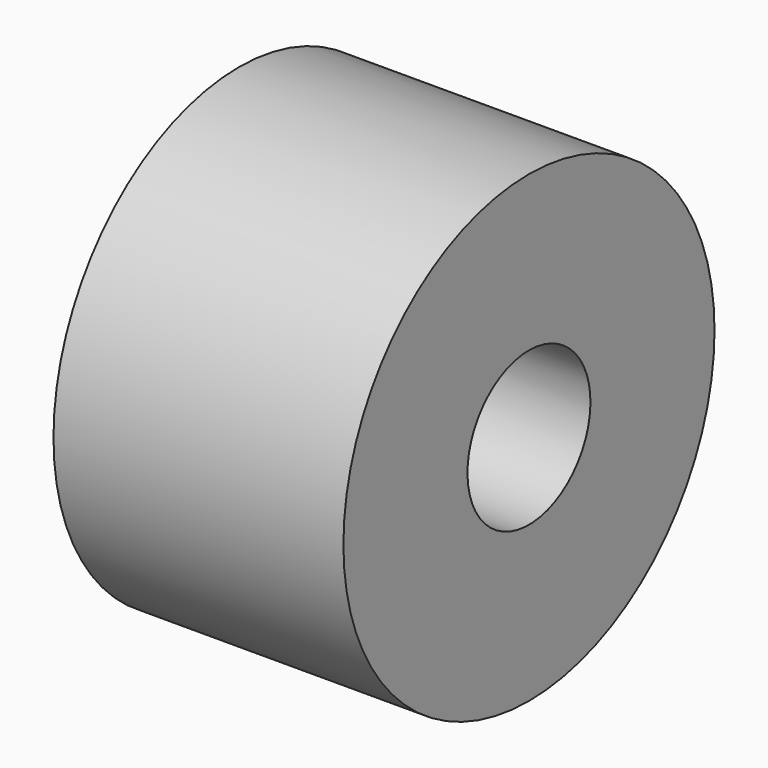
from build123d import *

# Parameters (mm, degrees)
CYLINDER044_R     = 2.65
CYLINDER044_DEPTH = 10
CYLINDER_R        = 8
CYLINDER_DEPTH    = 10


with BuildPart() as idler001:
    # Cylinder044 → Cylinder044 (new body)
    with BuildSketch(Plane(origin=(5, -1.25, 10), x_dir=(0, 0, 1), z_dir=(-1, 0, 0))):
        Circle(CYLINDER044_R)
    extrude(amount=CYLINDER044_DEPTH)


with BuildPart() as idler_template:
    # Cylinder → Cylinder (new body)
    with BuildSketch(Plane(origin=(5, -1.25, 10), x_dir=(0, 0, 1), z_dir=(-1, 0, 0))):
        Circle(CYLINDER_R)
    extrude(amount=CYLINDER_DEPTH)

    # Cut022020016032007036026: cut idler001
    add(idler001.part, mode=Mode.SUBTRACT)


with BuildPart() as idler_template_1:
    # Cut022020016032007036026 placement: moved
    add(idler_template.part.moved(Location((0, 0, -1))))


solid = idler_template_1.part
